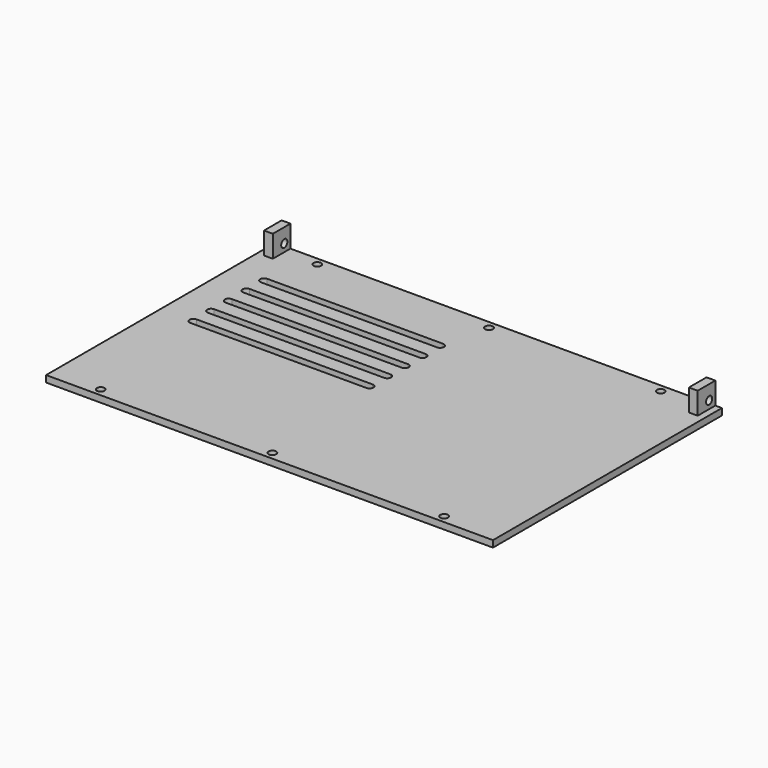
from build123d import *

# Parameters (mm, degrees)
SKETCH_W        = 203
SKETCH_H        = 130
SKETCH_R        = 1.75
PAD_DEPTH       = 3
SKETCH001_W     = 4
SKETCH001_H     = 10
PAD001_DEPTH    = 10
SKETCH002_R     = 1.75
SKETCH002_W     = 95
SKETCH002_H     = 4
POCKET_DEPTH    = 225
SKETCH003_R     = 1.75
POCKET001_DEPTH = 200.001


with BuildPart() as part:
    # Sketch → Pad (new body)
    with BuildSketch(Plane.XY):
        with Locations((101.5, 65)):
            Rectangle(SKETCH_W, SKETCH_H)
        with Locations((22, 126.5)):
            Circle(SKETCH_R, mode=Mode.SUBTRACT)
        with Locations((100, 126.5)):
            Circle(SKETCH_R, mode=Mode.SUBTRACT)
        with Locations((178, 126.5)):
            Circle(SKETCH_R, mode=Mode.SUBTRACT)
        with Locations((22, 3.5)):
            Circle(SKETCH_R, mode=Mode.SUBTRACT)
        with Locations((100, 3.5)):
            Circle(SKETCH_R, mode=Mode.SUBTRACT)
        with Locations((178, 3.5)):
            Circle(SKETCH_R, mode=Mode.SUBTRACT)
        with BuildLine():
            ThreePointArc((15, 106.75), (13.25, 105), (15, 103.25))
            Line((15, 103.25), (95, 103.25))
            ThreePointArc((95, 103.25), (96.75, 105), (95, 106.75))
            Line((15, 106.75), (95, 106.75))
        make_face(mode=Mode.SUBTRACT)
        with BuildLine():
            ThreePointArc((14.985188, 96.750011), (13.235188, 95.000011), (14.985188, 93.250011))
            Line((14.985188, 93.250011), (94.985188, 93.250011))
            ThreePointArc((94.985188, 93.250011), (96.735188, 95.000011), (94.985188, 96.750011))
            Line((14.985188, 96.750011), (94.985188, 96.750011))
        make_face(mode=Mode.SUBTRACT)
        with BuildLine():
            ThreePointArc((14.970376, 86.750022), (13.220376, 85.000022), (14.970376, 83.250022))
            Line((14.970376, 83.250022), (94.970376, 83.250022))
            ThreePointArc((94.970376, 83.250022), (96.720376, 85.000022), (94.970376, 86.750022))
            Line((14.970376, 86.750022), (94.970376, 86.750022))
        make_face(mode=Mode.SUBTRACT)
        with BuildLine():
            ThreePointArc((14.955564, 76.750033), (13.205564, 75.000033), (14.955564, 73.250033))
            Line((14.955564, 73.250033), (94.955564, 73.250033))
            ThreePointArc((94.955564, 73.250033), (96.705564, 75.000033), (94.955564, 76.750033))
            Line((14.955564, 76.750033), (94.955564, 76.750033))
        make_face(mode=Mode.SUBTRACT)
        with BuildLine():
            ThreePointArc((14.940752, 66.750044), (13.190752, 65.000044), (14.940752, 63.250044))
            Line((14.940752, 63.250044), (94.940752, 63.250044))
            ThreePointArc((94.940752, 63.250044), (96.690752, 65.000044), (94.940752, 66.750044))
            Line((14.940752, 66.750044), (94.940752, 66.750044))
        make_face(mode=Mode.SUBTRACT)
    extrude(amount=-PAD_DEPTH)

    # Sketch001 → Pad001 (join)
    with BuildSketch(Plane.XY):
        with Locations((198, 125)):
            Rectangle(SKETCH001_W, SKETCH001_H)
        with Locations((5, 125)):
            Rectangle(SKETCH001_W, SKETCH001_H)
    extrude(amount=PAD001_DEPTH)

    # Sketch002 → Pocket (cut)
    with BuildSketch(Plane.YZ.offset(107)):
        with Locations((-51, 7)):
            Circle(SKETCH002_R)
        with Locations((61, 7)):
            Circle(SKETCH002_R)
        with Locations((7.5, 11)):
            Rectangle(SKETCH002_W, SKETCH002_H)
    extrude(amount=-POCKET_DEPTH, mode=Mode.SUBTRACT)

    # Sketch003 (on DatumPlane) → Pocket001 (cut, through all)
    with BuildSketch(Plane.YZ.offset(3)):
        with Locations((126.5, 3.5)):
            Circle(SKETCH003_R)
    extrude(amount=POCKET001_DEPTH, mode=Mode.SUBTRACT)


solid = part.part
